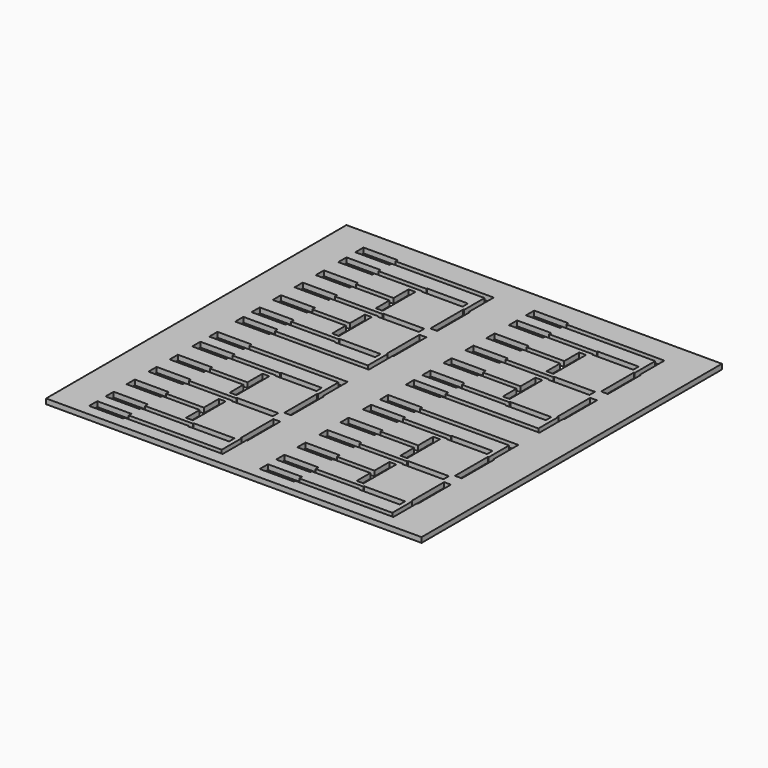
from build123d import *

# Parameters (mm, degrees)
F0_W     = 110
F0_H     = 110
F1_DEPTH = 1.5
F4_DEPTH = 1.501


with BuildPart() as f1:
    # F0 (on Top) → F1 (new body)
    with BuildSketch(Plane.XY):
        with Locations((55, 55)):
            Rectangle(F0_W, F0_H)
    extrude(amount=F1_DEPTH)

    # F3 (on face) → F4 (cut, through all)
    with BuildSketch(Plane.XY.offset(1.5)):
        Polygon((46, 97), (34, 97), (34, 96.75), (20, 96.75), (20, 97.5), (10, 97.5), (10, 94.5), (20, 94.5), (20, 95.25), (34, 95.25), (34, 95), (46, 95), align=None)
        Polygon((47.25, 94), (47, 94), (47, 82), (49, 82), (49, 94), (48.75, 94), align=None)
        Polygon((47.25, 101.5), (47.25, 94), (48.75, 94), (48.75, 103), (20, 103), (20, 103.75), (10, 103.75), (10, 100.75), (20, 100.75), (20, 101.5), align=None)
        Polygon((46, 79), (46, 81), (34, 81), (34, 80.75), (20, 80.75), (20, 81.5), (10, 81.5), (10, 78.5), (20, 78.5), (20, 79.25), (34, 79.25), (34, 79), align=None)
        Polygon((49, 78), (47, 78), (47, 66), (47.25, 66), (47.25, 58.75), (20, 58.75), (20, 59.75), (10, 59.75), (10, 56.75), (20, 56.75), (20, 57.25), (48.75, 57.25), (48.75, 66), (49, 66), align=None)
        Polygon((46, 63), (46, 65), (34, 65), (34, 64.75), (20, 64.75), (20, 65.75), (10, 65.75), (10, 62.75), (20, 62.75), (20, 63.25), (34, 63.25), (34, 63), align=None)
        Polygon((31, 66), (33, 66), (33, 78), (31, 78), (31, 72.5), (20, 72.5), (20, 73.5), (10, 73.5), (10, 70.5), (20, 70.5), (20, 71), (31, 71), align=None)
        Polygon((31, 82), (33, 82), (33, 94), (31, 94), (31, 88.5), (20, 88.5), (20, 89.25), (10, 89.25), (10, 86.25), (20, 86.25), (20, 87), (31, 87), align=None)
        Polygon((20, 44), (10, 44), (10, 41), (20, 41), (20, 41.75), (34, 41.75), (34, 41.5), (46, 41.5), (46, 43.5), (34, 43.5), (34, 43.25), (20, 43.25), align=None)
        Polygon((34, 27.5), (34, 27.25), (20, 27.25), (20, 28), (10, 28), (10, 25), (20, 25), (20, 25.75), (34, 25.75), (34, 25.5), (46, 25.5), (46, 27.5), align=None)
        Polygon((31, 24.5), (31, 19), (20, 19), (20, 20), (10, 20), (10, 17), (20, 17), (20, 17.5), (31, 17.5), (31, 12.5), (33, 12.5), (33, 24.5), align=None)
        Polygon((47.25, 12.5), (47.25, 5.25), (20, 5.25), (20, 6.25), (10, 6.25), (10, 3.25), (20, 3.25), (20, 3.75), (48.75, 3.75), (48.75, 12.5), (49, 12.5), (49, 24.5), (47, 24.5), (47, 12.5), align=None)
        Polygon((10, 50.25), (10, 47.25), (20, 47.25), (20, 48), (47.25, 48), (47.25, 40.5), (48.75, 40.5), (48.75, 49.5), (20, 49.5), (20, 50.25), align=None)
        Polygon((48.75, 40.5), (47.25, 40.5), (47, 40.5), (47, 28.5), (49, 28.5), (49, 40.5), align=None)
        Polygon((20, 12.25), (10, 12.25), (10, 9.25), (20, 9.25), (20, 9.75), (34, 9.75), (34, 9.5), (46, 9.5), (46, 11.5), (34, 11.5), (34, 11.25), (20, 11.25), align=None)
        Polygon((31, 28.5), (33, 28.5), (33, 40.5), (31, 40.5), (31, 35), (20, 35), (20, 35.75), (10, 35.75), (10, 32.75), (20, 32.75), (20, 33.5), (31, 33.5), align=None)
        Polygon((70, 97.5), (60, 97.5), (60, 94.5), (70, 94.5), (70, 95.25), (84, 95.25), (84, 95), (96, 95), (96, 97), (84, 97), (84, 96.75), (70, 96.75), align=None)
        Polygon((84, 81), (84, 80.75), (70, 80.75), (70, 81.5), (60, 81.5), (60, 78.5), (70, 78.5), (70, 79.25), (84, 79.25), (84, 79), (96, 79), (96, 81), align=None)
        Polygon((81, 78), (81, 72.5), (70, 72.5), (70, 73.5), (60, 73.5), (60, 70.5), (70, 70.5), (70, 71), (81, 71), (81, 66), (83, 66), (83, 78), align=None)
        Polygon((97.25, 66), (97.25, 58.75), (70, 58.75), (70, 59.75), (60, 59.75), (60, 56.75), (70, 56.75), (70, 57.25), (98.75, 57.25), (98.75, 66), (99, 66), (99, 78), (97, 78), (97, 66), align=None)
        Polygon((60, 103.75), (60, 100.75), (70, 100.75), (70, 101.5), (97.25, 101.5), (97.25, 94), (98.75, 94), (98.75, 103), (70, 103), (70, 103.75), align=None)
        Polygon((98.75, 94), (97.25, 94), (97, 94), (97, 82), (99, 82), (99, 94), align=None)
        Polygon((70, 65.75), (60, 65.75), (60, 62.75), (70, 62.75), (70, 63.25), (84, 63.25), (84, 63), (96, 63), (96, 65), (84, 65), (84, 64.75), (70, 64.75), align=None)
        Polygon((81, 82), (83, 82), (83, 94), (81, 94), (81, 88.5), (70, 88.5), (70, 89.25), (60, 89.25), (60, 86.25), (70, 86.25), (70, 87), (81, 87), align=None)
        Polygon((70, 44), (60, 44), (60, 41), (70, 41), (70, 41.75), (84, 41.75), (84, 41.5), (96, 41.5), (96, 43.5), (84, 43.5), (84, 43.25), (70, 43.25), align=None)
        Polygon((84, 27.5), (84, 27.25), (70, 27.25), (70, 28), (60, 28), (60, 25), (70, 25), (70, 25.75), (84, 25.75), (84, 25.5), (96, 25.5), (96, 27.5), align=None)
        Polygon((81, 24.5), (81, 19), (70, 19), (70, 20), (60, 20), (60, 17), (70, 17), (70, 17.5), (81, 17.5), (81, 12.5), (83, 12.5), (83, 24.5), align=None)
        Polygon((97.25, 12.5), (97.25, 5.25), (70, 5.25), (70, 6.25), (60, 6.25), (60, 3.25), (70, 3.25), (70, 3.75), (98.75, 3.75), (98.75, 12.5), (99, 12.5), (99, 24.5), (97, 24.5), (97, 12.5), align=None)
        Polygon((60, 50.25), (60, 47.25), (70, 47.25), (70, 48), (97.25, 48), (97.25, 40.5), (98.75, 40.5), (98.75, 49.5), (70, 49.5), (70, 50.25), align=None)
        Polygon((98.75, 40.5), (97.25, 40.5), (97, 40.5), (97, 28.5), (99, 28.5), (99, 40.5), align=None)
        Polygon((70, 12.25), (60, 12.25), (60, 9.25), (70, 9.25), (70, 9.75), (84, 9.75), (84, 9.5), (96, 9.5), (96, 11.5), (84, 11.5), (84, 11.25), (70, 11.25), align=None)
        Polygon((81, 28.5), (83, 28.5), (83, 40.5), (81, 40.5), (81, 35), (70, 35), (70, 35.75), (60, 35.75), (60, 32.75), (70, 32.75), (70, 33.5), (81, 33.5), align=None)
    extrude(amount=-F4_DEPTH, mode=Mode.SUBTRACT)


solid = f1.part
